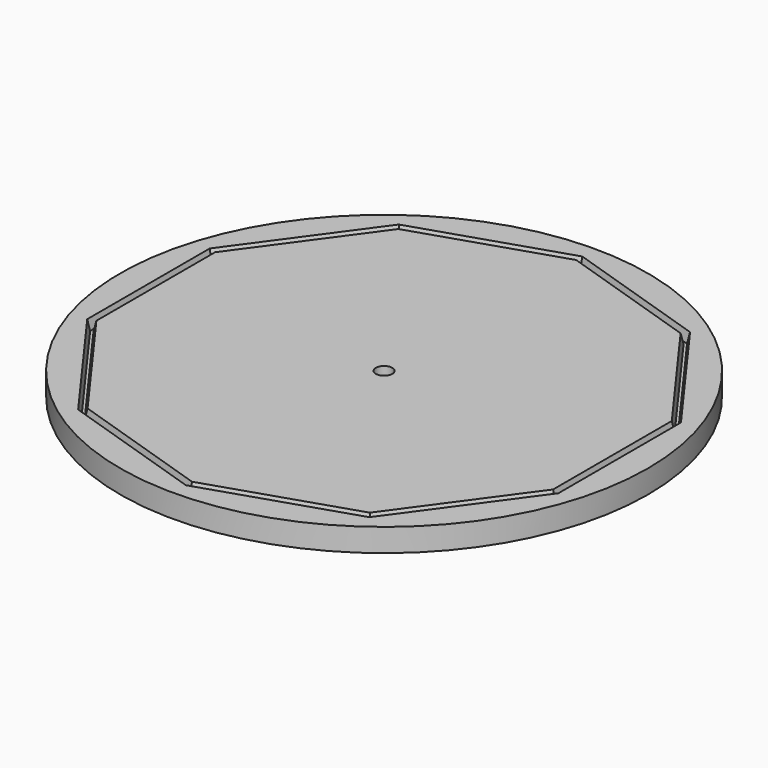
from build123d import *

# Parameters (mm, degrees)
F0_R     = 80
F0_R_2   = 2.5
F1_DEPTH = 7
F3_DEPTH = 3
F3_TAPER = 13.1


with BuildPart() as f1:
    # F0 (on Top) → F1 (new body)
    with BuildSketch(Plane.XY):
        Circle(F0_R)
        Circle(F0_R_2, mode=Mode.SUBTRACT)
    extrude(amount=-F1_DEPTH)

    # F2 (on face) → F3 (cut)
    with BuildSketch(Plane.XY):
        Polygon((-44.1329924701, -60.7438529321), (0, -75.0835314393), (44.1329924701, -60.7438529321), (71.4086818418, -23.2020872124), (71.4086818418, 23.2020872124), (44.1329924701, 60.7438529321), (0, 75.0835314393), (-44.1329924701, 60.7438529321), (-71.4086818418, 23.2020872124), (-71.4086818418, -23.2020872124), align=None)
        Polygon((-42.7733184212, -58.8724221535), (-69.2086830172, -22.4872642626), (-69.2086830172, 22.4872642626), (-42.7733184212, 58.8724221535), (0, 72.7703157818), (42.7733184212, 58.8724221535), (69.2086830172, 22.4872642626), (69.2086830172, -22.4872642626), (42.7733184212, -58.8724221535), (0, -72.7703157818), align=None, mode=Mode.SUBTRACT)
    extrude(amount=-F3_DEPTH, taper=F3_TAPER, mode=Mode.SUBTRACT)


solid = f1.part
